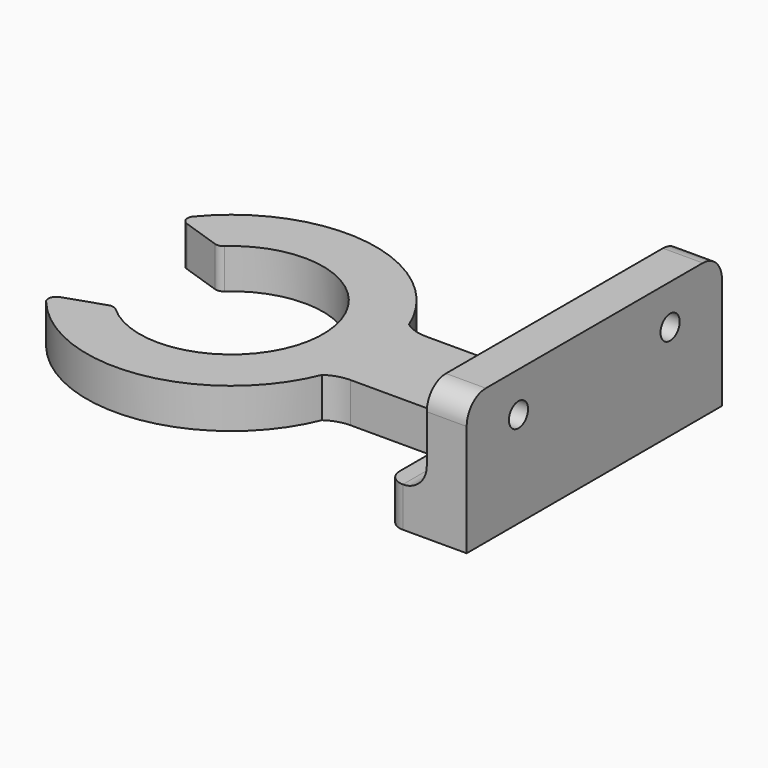
from build123d import *

# Parameters (mm, degrees)
F1_DEPTH = 5
F2_W     = 5
F2_H     = 40
F3_DEPTH = 12
F4_R     = 3
F5_R     = 1.5
F6_DEPTH = 10


with BuildPart() as f1:
    # F0 (on Top) → F1 (new body)
    with BuildSketch(Plane.XY):
        with BuildLine():
            ThreePointArc((-7.71248, 8.530396), (11.5, 0), (-7.71248, -8.530396))
            ThreePointArc((-7.71248, -8.530396), (-8.179899, -8.293039), (-8.703171, -8.324766))
            Line((-8.703171, -8.324766), (-13.541093, -9.959054))
            ThreePointArc((-13.541093, -9.959054), (-14.18276, -10.632379), (-13.992452, -11.54281))
            ThreePointArc((-13.992452, -11.54281), (2.75234, -17.929021), (16.810487, -6.814154))
            ThreePointArc((16.810487, -6.814154), (18.174589, -6.14164), (19.677769, -5.910335))
            Line((19.677769, -5.910335), (30.5, -5.910335))
            ThreePointArc((30.5, -5.910335), (34.035534, -7.374801), (35.5, -10.910335))
            Line((35.5, -10.910335), (35.5, -18))
            ThreePointArc((35.5, -18), (36.085786, -19.414214), (37.5, -20))
            Line((37.5, -20), (45.5, -20))
            Line((45.5, -20), (45.5, 0))
            Line((45.5, 0), (45.5, 20))
            Line((45.5, 20), (37.5, 20))
            ThreePointArc((37.5, 20), (36.085786, 19.414214), (35.5, 18))
            Line((35.5, 18), (35.5, 10.910335))
            ThreePointArc((35.5, 10.910335), (34.035534, 7.374801), (30.5, 5.910335))
            Line((30.5, 5.910335), (19.677769, 5.910335))
            ThreePointArc((19.677769, 5.910335), (18.174589, 6.14164), (16.810487, 6.814154))
            ThreePointArc((16.810487, 6.814154), (2.75234, 17.929021), (-13.992452, 11.54281))
            ThreePointArc((-13.992452, 11.54281), (-14.18276, 10.632379), (-13.541093, 9.959054))
            Line((-13.541093, 9.959054), (-8.703171, 8.324766))
            ThreePointArc((-8.703171, 8.324766), (-8.179899, 8.293039), (-7.71248, 8.530396))
        make_face()
    extrude(amount=F1_DEPTH)

    # F2 (on face) → F3 (join)
    with BuildSketch(Plane.XY.offset(5)):
        with Locations((43, 0)):
            Rectangle(F2_W, F2_H)
    extrude(amount=F3_DEPTH)

    # F4
    f4_edges = [f1.edges().sort_by_distance(p)[0] for p in [
        (40.5, 0, 5),
        (43, 20, 17),
        (43, -20, 17),
    ]]
    fillet(f4_edges, radius=F4_R)

    # F5 (on face) → F6 (cut)
    with BuildSketch(Plane(origin=(40.5, 0, 0), x_dir=(0, -1, 0), z_dir=(-1, 0, 0))):
        with Locations((-11.877556, 12)):
            Circle(F5_R)
        with Locations((11.877556, 12)):
            Circle(F5_R)
    extrude(amount=-F6_DEPTH, mode=Mode.SUBTRACT)


solid = f1.part
